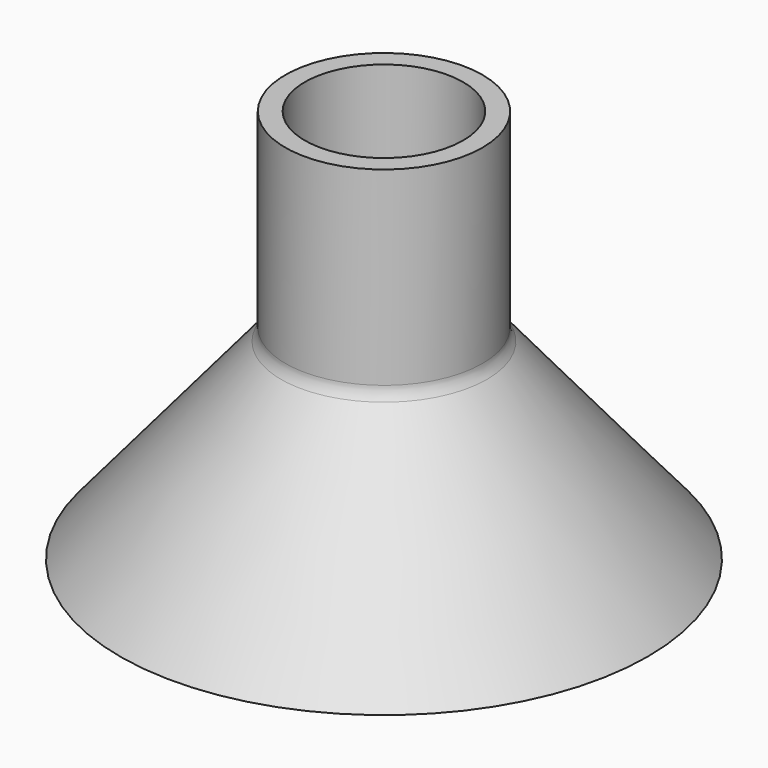
from build123d import *


with BuildPart() as f1:
    # F0 (on Front) → F1 (revolve)
    with BuildSketch(Plane.XZ):
        with BuildLine():
            Line((25.4, 37.619851), (25.4, 86.6))
            Line((25.4, 86.6), (20.4, 86.6))
            Line((20.4, 86.6), (20.4, 36.428098))
            ThreePointArc((20.4, 36.428098), (20.701537, 34.717997), (21.569778, 33.21416))
            Line((21.569778, 33.21416), (62.026261, -15))
            Line((62.026261, -15), (68.026261, -15))
            Line((68.026261, -15), (26.569778, 34.405913))
            ThreePointArc((26.569778, 34.405913), (25.701537, 35.90975), (25.4, 37.619851))
        make_face()
    revolve(axis=Axis((0, 0, 1.123895), (0, 0, 1)))


solid = f1.part
